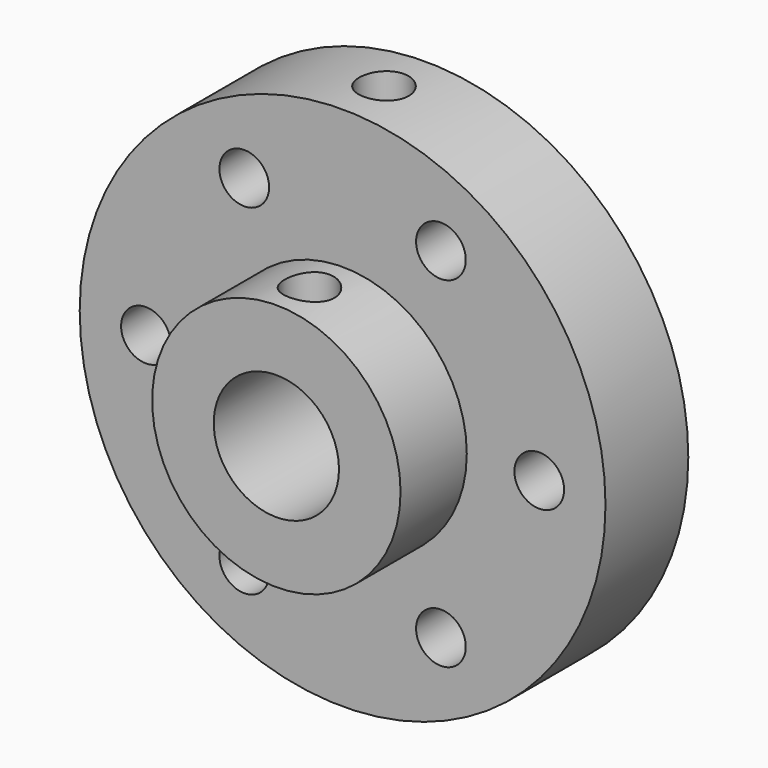
from build123d import *

# Parameters (mm, degrees)
F0_R     = 12.7
F0_R_2   = 6
F0_R_3   = 3.025
F1_DEPTH = 5
F2_DEPTH = 9
F3_D     = 2.4
F6_D     = 2.4
F6_DEPTH = 10
F6_TIP   = 0.7210327428


with BuildPart() as f1:
    # F0 (on Front) → F1 (new body)
    with BuildSketch(Plane.XZ):
        Circle(F0_R)
        Circle(F0_R_2, mode=Mode.SUBTRACT)
        Circle(F0_R_2)
        Circle(F0_R_3, mode=Mode.SUBTRACT)
    extrude(amount=F1_DEPTH)

    # F0 (on Front) → F2 (join)
    with BuildSketch(Plane.XZ):
        Circle(F0_R_2)
        Circle(F0_R_3, mode=Mode.SUBTRACT)
    extrude(amount=F2_DEPTH)

    # F3 (through all)
    with Locations(Plane(origin=(0, 0, 0), x_dir=(1, 0, 0), z_dir=(0, 1, 0))):
        with Locations((9.5, 0), (4.75, -8.227241336), (-4.75, -8.227241336), (-9.5, 0), (-4.75, 8.227241336), (4.75, 8.227241336)):
            Hole(F3_D / 2)

    # F6
    with Locations(Plane.XY.offset(12.7)):
        with Locations((0, -2.5), (0, -7)):
            Hole(F6_D / 2, depth=F6_DEPTH)
            with Locations((0, 0, -(F6_DEPTH + F6_TIP / 2))):  # 118° drill point
                Cone(0, F6_D / 2, F6_TIP, mode=Mode.SUBTRACT)


solid = f1.part
